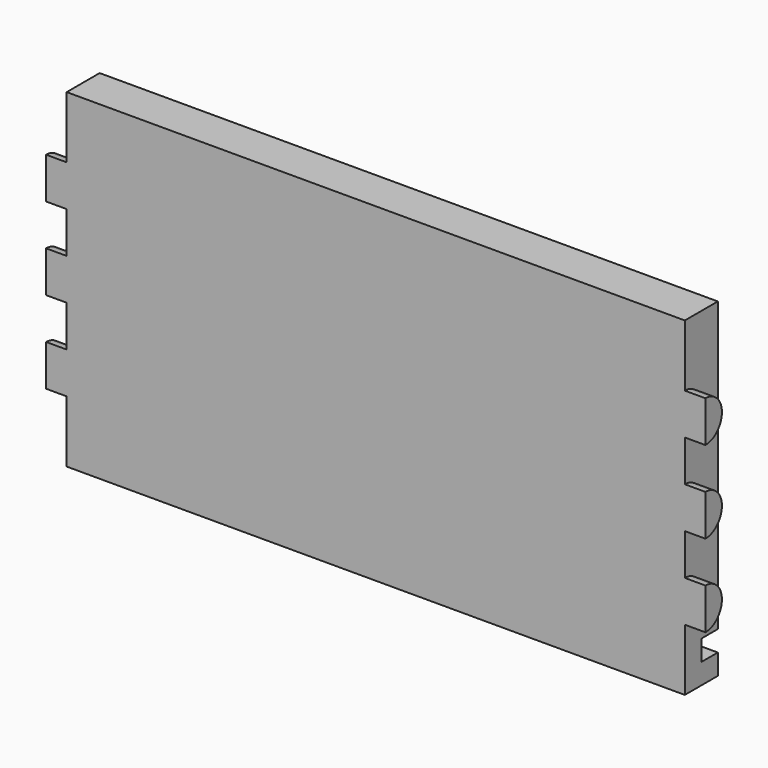
from build123d import *

# Parameters (mm, degrees)
F1_DEPTH = 12.7
F2_W     = 203.2
F2_H     = 6.35
F3_DEPTH = 6.35
F5_DEPTH = 6.35
F7_DEPTH = 6.35


with BuildPart() as f1:
    # F0 (on Front) → F1 (new body)
    with BuildSketch(Plane.XZ):
        Polygon((101.6, 50.8), (-101.6, 50.8), (-101.6, -38.1), (-101.6, -44.45), (-101.6, -50.8), (101.6, -50.8), (101.6, -44.45), (101.6, -38.1), align=None)
    extrude(amount=F1_DEPTH)

    # F2 (on face) → F3 (cut)
    with BuildSketch(Plane(origin=(0, 0, 0), x_dir=(-1, 0, 0), z_dir=(0, 1, 0))):
        with Locations((0, -41.275)):
            Rectangle(F2_W, F2_H)
    extrude(amount=-F3_DEPTH, mode=Mode.SUBTRACT)

    # F4 (on face) → F5 (cut)
    with BuildSketch(Plane(origin=(-101.6, 0, 0), x_dir=(0, -1, 0), z_dir=(-1, 0, 0))):
        with BuildLine():
            ThreePointArc((12.7, 19.05), (6.35, 25.4), (12.7, 31.75))
            Line((12.7, 31.75), (12.7, 50.8))
            Line((12.7, 50.8), (0, 50.8))
            Line((0, 50.8), (0, -38.1))
            Line((0, -38.1), (6.35, -38.1))
            Line((6.35, -38.1), (6.35, -44.45))
            Line((6.35, -44.45), (0, -44.45))
            Line((0, -44.45), (0, -50.8))
            Line((0, -50.8), (12.7, -50.8))
            Line((12.7, -50.8), (12.7, -31.75))
            ThreePointArc((12.7, -31.75), (6.35, -25.4), (12.7, -19.05))
            Line((12.7, -19.05), (12.7, -6.35))
            ThreePointArc((12.7, -6.35), (6.35, 0), (12.7, 6.35))
            Line((12.7, 6.35), (12.7, 19.05))
        make_face()
    extrude(amount=-F5_DEPTH, mode=Mode.SUBTRACT)

    # F6 (on face) → F7 (cut)
    with BuildSketch(Plane.YZ.offset(101.6)):
        with BuildLine():
            ThreePointArc((-12.7, 31.75), (-6.35, 25.4), (-12.7, 19.05))
            Line((-12.7, 19.05), (-12.7, 6.35))
            ThreePointArc((-12.7, 6.35), (-6.35, 0), (-12.7, -6.35))
            Line((-12.7, -6.35), (-12.7, -19.05))
            ThreePointArc((-12.7, -19.05), (-6.35, -25.4), (-12.7, -31.75))
            Line((-12.7, -31.75), (-12.7, -50.8))
            Line((-12.7, -50.8), (0, -50.8))
            Line((0, -50.8), (0, -44.45))
            Line((0, -44.45), (-6.35, -44.45))
            Line((-6.35, -44.45), (-6.35, -38.1))
            Line((-6.35, -38.1), (0, -38.1))
            Line((0, -38.1), (0, 50.8))
            Line((0, 50.8), (-12.7, 50.8))
            Line((-12.7, 50.8), (-12.7, 31.75))
        make_face()
    extrude(amount=-F7_DEPTH, mode=Mode.SUBTRACT)


solid = f1.part
